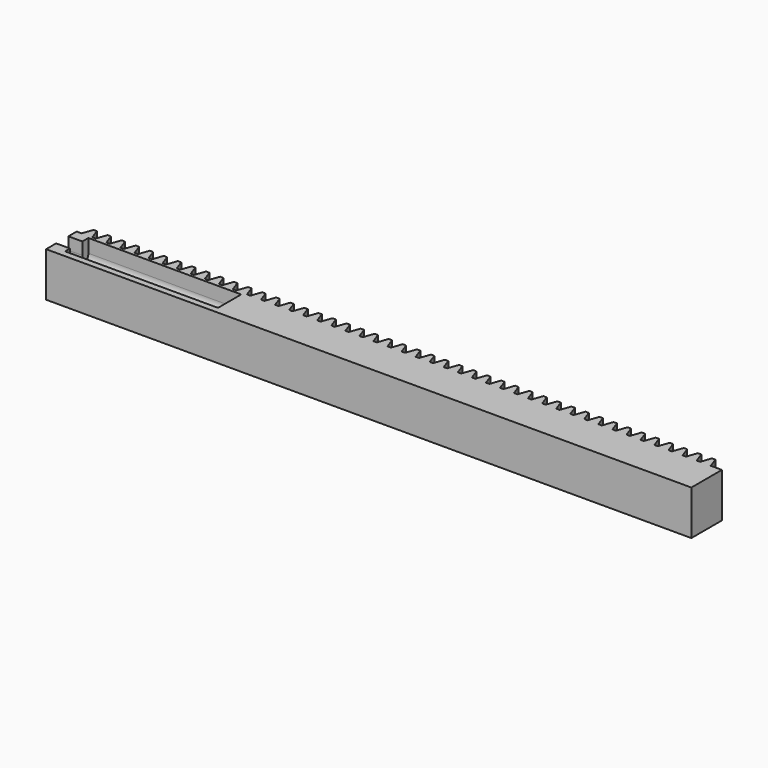
from build123d import *

# Parameters (mm, degrees)
F1_DEPTH = 9.9
F3_DEPTH = 3.1
F5_DEPTH = 5
F6_R     = 2


with BuildPart() as f1:
    # F0 (on Top) → F1 (new body)
    with BuildSketch(Plane.XY):
        Polygon((1.099551, 0), (0, 0), (0, -8.5), (143.5, -8.5), (143.5, 0), (141.381551, 0), (141.014037, 0), (138.64314, 0), (137.88314, 0), (135.512243, 0), (134.752243, 0), (132.381346, 0), (131.621346, 0), (129.250449, 0), (128.490449, 0), (127.305, 0), (126.503103, 0), (126.119551, 0), (125.761551, 0), (125.403551, 0), (125.02, 0), (124.218103, 0), (123.032654, 0), (122.272654, 0), (119.901757, 0), (119.141757, 0), (116.77086, 0), (116.01086, 0), (113.639963, 0), (112.879963, 0), (110.509066, 0), (110.141551, 0), (109.774037, 0), (108.023103, 0), (107.40314, 0), (106.64314, 0), (104.272243, 0), (103.512243, 0), (101.141346, 0), (100.381346, 0), (98.010449, 0), (97.250449, 0), (96.065, 0), (95.243103, 0), (94.879551, 0), (94.511551, 0), (94.143551, 0), (93.78, 0), (92.958103, 0), (91.772654, 0), (91.012654, 0), (88.641757, 0), (87.881757, 0), (85.51086, 0), (84.75086, 0), (82.379963, 0), (81.619963, 0), (79.249066, 0), (78.881551, 0), (78.514037, 0), (76.763103, 0), (76.14314, 0), (75.38314, 0), (73.012243, 0), (72.252243, 0), (69.881346, 0), (69.121346, 0), (66.750449, 0), (65.990449, 0), (64.805, 0), (63.983103, 0), (63.619551, 0), (63.251551, 0), (62.883551, 0), (62.52, 0), (61.698103, 0), (60.512654, 0), (59.752654, 0), (57.381757, 0), (56.621757, 0), (54.25086, 0), (53.49086, 0), (51.119963, 0), (50.359963, 0), (47.989066, 0), (47.621551, 0), (47.254037, 0), (45.503103, 0), (44.88314, 0), (44.12314, 0), (41.752243, 0), (40.992243, 0), (38.621346, 0), (37.861346, 0), (35.490449, 0), (34.730449, 0), (33.545, 0), (32.723103, 0), (32.359551, 0), (31.991551, 0), (31.623551, 0), (31.26, 0), (30.438103, 0), (29.252654, 0), (28.492654, 0), (26.121757, 0), (25.361757, 0), (22.99086, 0), (22.23086, 0), (19.859963, 0), (19.099963, 0), (16.729066, 0), (16.361551, 0), (15.994037, 0), (14.243103, 0), (13.62314, 0), (12.86314, 0), (10.492243, 0), (9.732243, 0), (7.361346, 0), (6.601346, 0), (4.230449, 0), (3.470449, 0), (2.285, 0), align=None)
        Polygon((1.905, 2.3), (1.099551, 0), (2.285, 0), (2.285, 2.3), align=None)
        Polygon((2.285, 2.3), (2.285, 0), (3.470449, 0), (2.665, 2.3), align=None)
        Polygon((5.035897, 2.3), (4.230449, 0), (6.601346, 0), (5.795897, 2.3), align=None)
        Polygon((138.64314, 0), (141.014037, 0), (140.208588, 2.3), (139.448588, 2.3), align=None)
        Polygon((8.166794, 2.3), (7.361346, 0), (9.732243, 0), (8.926794, 2.3), align=None)
        Polygon((135.512243, 0), (137.88314, 0), (137.077691, 2.3), (136.317691, 2.3), align=None)
        Polygon((11.297691, 2.3), (10.492243, 0), (12.86314, 0), (12.057691, 2.3), align=None)
        Polygon((132.381346, 0), (134.752243, 0), (133.946794, 2.3), (133.186794, 2.3), align=None)
        Polygon((14.428588, 2.3), (13.62314, 0), (14.243103, 0), (15.994037, 0), (15.188588, 2.3), align=None)
        Polygon((129.250449, 0), (131.621346, 0), (130.815897, 2.3), (130.055897, 2.3), align=None)
        Polygon((127.305, 0), (128.490449, 0), (127.685, 2.3), (127.305, 2.3), align=None)
        Polygon((17.534515, 2.3), (16.729066, 0), (19.099963, 0), (18.294515, 2.3), align=None)
        Polygon((126.503103, 0), (127.305, 0), (127.305, 2.3), (126.925, 2.3), (126.119551, 0), align=None)
        Polygon((20.665412, 2.3), (19.859963, 0), (22.23086, 0), (21.425412, 2.3), align=None)
        Polygon((23.796309, 2.3), (22.99086, 0), (25.361757, 0), (24.556309, 2.3), align=None)
        Polygon((125.02, 0), (125.403551, 0), (124.598103, 2.3), (124.218103, 2.3), (124.218103, 0), align=None)
        Polygon((26.927206, 2.3), (26.121757, 0), (28.492654, 0), (27.687206, 2.3), align=None)
        Polygon((123.032654, 0), (124.218103, 0), (124.218103, 2.3), (123.838103, 2.3), align=None)
        Polygon((30.058103, 2.3), (29.252654, 0), (30.438103, 0), (30.438103, 2.3), align=None)
        Polygon((119.901757, 0), (122.272654, 0), (121.467206, 2.3), (120.707206, 2.3), align=None)
        Polygon((30.438103, 2.3), (30.438103, 0), (31.26, 0), (31.623551, 0), (30.818103, 2.3), align=None)
        Polygon((116.77086, 0), (119.141757, 0), (118.336309, 2.3), (117.576309, 2.3), align=None)
        Polygon((113.639963, 0), (116.01086, 0), (115.205412, 2.3), (114.445412, 2.3), align=None)
        Polygon((33.165, 2.3), (32.359551, 0), (32.723103, 0), (33.545, 0), (33.545, 2.3), align=None)
        Polygon((110.509066, 0), (112.879963, 0), (112.074515, 2.3), (111.314515, 2.3), align=None)
        Polygon((33.545, 2.3), (33.545, 0), (34.730449, 0), (33.925, 2.3), align=None)
        Polygon((36.295897, 2.3), (35.490449, 0), (37.861346, 0), (37.055897, 2.3), align=None)
        Polygon((108.023103, 0), (109.774037, 0), (108.968588, 2.3), (108.208588, 2.3), (107.40314, 0), align=None)
        Polygon((39.426794, 2.3), (38.621346, 0), (40.992243, 0), (40.186794, 2.3), align=None)
        Polygon((104.272243, 0), (106.64314, 0), (105.837691, 2.3), (105.077691, 2.3), align=None)
        Polygon((42.557691, 2.3), (41.752243, 0), (44.12314, 0), (43.317691, 2.3), align=None)
        Polygon((101.141346, 0), (103.512243, 0), (102.706794, 2.3), (101.946794, 2.3), align=None)
        Polygon((45.688588, 2.3), (44.88314, 0), (45.503103, 0), (47.254037, 0), (46.448588, 2.3), align=None)
        Polygon((98.010449, 0), (100.381346, 0), (99.575897, 2.3), (98.815897, 2.3), align=None)
        Polygon((96.065, 0), (97.250449, 0), (96.445, 2.3), (96.065, 2.3), align=None)
        Polygon((48.794515, 2.3), (47.989066, 0), (50.359963, 0), (49.554515, 2.3), align=None)
        Polygon((95.243103, 0), (96.065, 0), (96.065, 2.3), (95.685, 2.3), (94.879551, 0), align=None)
        Polygon((51.925412, 2.3), (51.119963, 0), (53.49086, 0), (52.685412, 2.3), align=None)
        Polygon((55.056309, 2.3), (54.25086, 0), (56.621757, 0), (55.816309, 2.3), align=None)
        Polygon((93.78, 0), (94.143551, 0), (93.338103, 2.3), (92.958103, 2.3), (92.958103, 0), align=None)
        Polygon((58.187206, 2.3), (57.381757, 0), (59.752654, 0), (58.947206, 2.3), align=None)
        Polygon((91.772654, 0), (92.958103, 0), (92.958103, 2.3), (92.578103, 2.3), align=None)
        Polygon((61.318103, 2.3), (60.512654, 0), (61.698103, 0), (61.698103, 2.3), align=None)
        Polygon((88.641757, 0), (91.012654, 0), (90.207206, 2.3), (89.447206, 2.3), align=None)
        Polygon((61.698103, 2.3), (61.698103, 0), (62.52, 0), (62.883551, 0), (62.078103, 2.3), align=None)
        Polygon((85.51086, 0), (87.881757, 0), (87.076309, 2.3), (86.316309, 2.3), align=None)
        Polygon((82.379963, 0), (84.75086, 0), (83.945412, 2.3), (83.185412, 2.3), align=None)
        Polygon((64.425, 2.3), (63.619551, 0), (63.983103, 0), (64.805, 0), (64.805, 2.3), align=None)
        Polygon((79.249066, 0), (81.619963, 0), (80.814515, 2.3), (80.054515, 2.3), align=None)
        Polygon((64.805, 2.3), (64.805, 0), (65.990449, 0), (65.185, 2.3), align=None)
        Polygon((67.555897, 2.3), (66.750449, 0), (69.121346, 0), (68.315897, 2.3), align=None)
        Polygon((76.763103, 0), (78.514037, 0), (77.708588, 2.3), (76.948588, 2.3), (76.14314, 0), align=None)
        Polygon((70.686794, 2.3), (69.881346, 0), (72.252243, 0), (71.446794, 2.3), align=None)
        Polygon((73.012243, 0), (75.38314, 0), (74.577691, 2.3), (73.817691, 2.3), align=None)
    extrude(amount=F1_DEPTH)

    # F2 (on face) → F3 (cut)
    with BuildSketch(Plane(origin=(0, 0, 0), x_dir=(0, -1, 0), z_dir=(-1, 0, 0))):
        with BuildLine():
            Line((4, 9.9), (2.3, 9.9))
            Line((2.3, 9.9), (2.3, 7.15))
            ThreePointArc((2.3, 7.15), (2.797918, 8.352082), (4, 8.85))
            Line((4, 8.85), (4, 9.9))
        make_face()
        with BuildLine():
            Line((4, 8.85), (4, 5.45))
            ThreePointArc((4, 5.45), (5.202082, 5.947918), (5.7, 7.15))
            ThreePointArc((5.7, 7.15), (5.202082, 8.352082), (4, 8.85))
        make_face()
        with BuildLine():
            ThreePointArc((4, 8.85), (2.797918, 8.352082), (2.3, 7.15))
            ThreePointArc((2.3, 7.15), (2.797918, 5.947918), (4, 5.45))
            Line((4, 5.45), (4, 8.85))
        make_face()
        with BuildLine():
            Line((5.7, 9.9), (4, 9.9))
            Line((4, 9.9), (4, 8.85))
            ThreePointArc((4, 8.85), (5.202082, 8.352082), (5.7, 7.15))
            Line((5.7, 7.15), (5.7, 9.9))
        make_face()
    extrude(amount=-F3_DEPTH, mode=Mode.SUBTRACT)

    # F4 (on face) → F5 (cut)
    with BuildSketch(Plane.XY.offset(9.9)):
        Polygon((3.1, -0.63), (3.1, -2.3), (3.1, -7.08), (37.1, -7.08), (37.1, -0.63), align=None)
    extrude(amount=-F5_DEPTH, mode=Mode.SUBTRACT)

    # F6
    f6_edges = [f1.edges().sort_by_distance(p)[0] for p in [
        (20.1, -0.63, 4.9),
        (20.1, -7.08, 4.9),
    ]]
    fillet(f6_edges, radius=F6_R)


solid = f1.part
